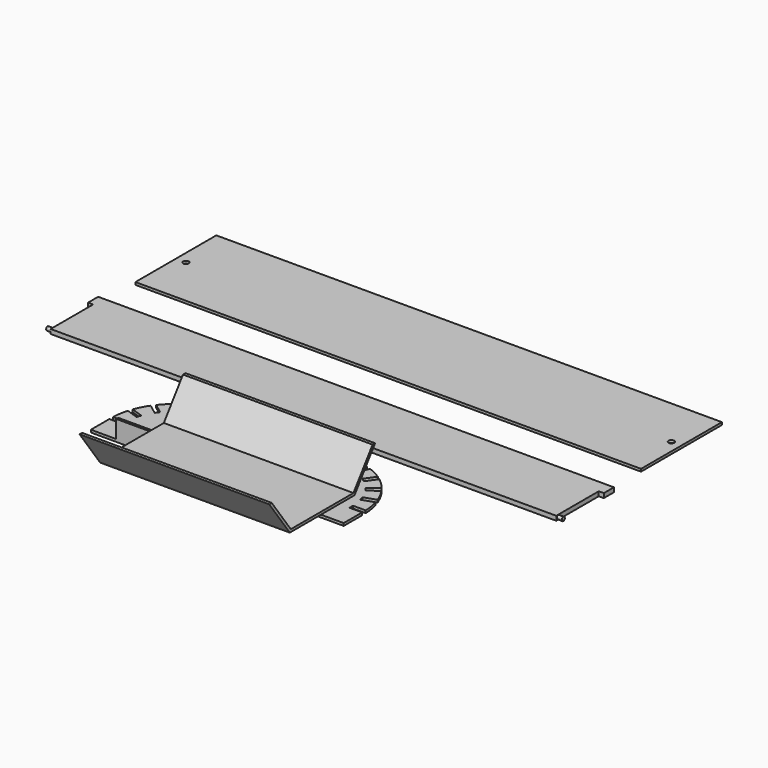
from build123d import *

# Parameters (mm, degrees)
F1_R      = 0.875
F2_DEPTH  = 1
F3_DEPTH  = 1.75
F4_DEPTH  = 8
F5_R      = 1
F6_DEPTH  = 2
F7_W      = 200
F7_H      = 40
F7_R      = 1.125
F8_DEPTH  = 1
F10_DEPTH = 2
F11_DEPTH = 202
F13_DEPTH = 75


with BuildPart() as f2:
    # F1 (on Top) → F2 (new body)
    with BuildSketch(Plane.XY):
        with BuildLine():
            Line((0.8836236666, -30.7055586278), (0.8836236666, -33.7055586278))
            Line((0.8836236666, -33.7055586278), (0.8836236666, -42.7055586278))
            Line((0.8836236666, -42.7055586278), (40.8836236666, -42.7055586278))
            Line((40.8836236666, -42.7055586278), (40.8836236666, -43.7055586278))
            Line((40.8836236666, -43.7055586278), (50.8836236666, -43.7055586278))
            Line((50.8836236666, -43.7055586278), (50.8836236666, -34.5805586278))
            Line((50.8836236666, -34.5805586278), (45.8836236666, -34.5805586278))
            Line((45.8836236666, -34.5805586278), (45.8836236666, -32.8305586278))
            Line((45.8836236666, -32.8305586278), (50.8683064743, -32.8305586278))
            ThreePointArc((50.8683064743, -32.8305586278), (50.8082953754, -31.7662958277), (50.7029709586, -30.7055586278))
            Line((50.7029709586, -30.7055586278), (25.8836236666, -30.7055586278))
            Line((25.8836236666, -30.7055586278), (20.8836236666, -30.7055586278))
            Line((20.8836236666, -30.7055586278), (0.8836236666, -30.7055586278))
        make_face()
        with Locations((25.8836236666, -33.7055586278)):
            Circle(F1_R, mode=Mode.SUBTRACT)
        with BuildLine():
            Line((-9.8663763334, -33.7055586278), (0.8836236666, -33.7055586278))
            Line((0.8836236666, -33.7055586278), (0.8836236666, -30.7055586278))
            Line((0.8836236666, -30.7055586278), (-19.1163763334, -30.7055586278))
            Line((-19.1163763334, -30.7055586278), (-24.1163763334, -30.7055586278))
            Line((-24.1163763334, -30.7055586278), (-48.9357236254, -30.7055586278))
            ThreePointArc((-48.9357236254, -30.7055586278), (-49.0410480422, -31.7662958277), (-49.1010591411, -32.8305586278))
            Line((-49.1010591411, -32.8305586278), (-44.1163763334, -32.8305586278))
            Line((-44.1163763334, -32.8305586278), (-44.1163763334, -33.7055586278))
            Line((-44.1163763334, -33.7055586278), (-24.9913763334, -33.7055586278))
            ThreePointArc((-24.9913763334, -33.7055586278), (-24.1163763334, -32.8305586278), (-23.2413763334, -33.7055586278))
            Line((-23.2413763334, -33.7055586278), (-9.8663763334, -33.7055586278))
        make_face()
        with BuildLine():
            Line((0.8836236666, -42.7055586278), (0.8836236666, -33.7055586278))
            Line((0.8836236666, -33.7055586278), (-9.8663763334, -33.7055586278))
            Line((-9.8663763334, -33.7055586278), (-23.2413763334, -33.7055586278))
            ThreePointArc((-23.2413763334, -33.7055586278), (-24.1163763334, -34.5805586278), (-24.9913763334, -33.7055586278))
            Line((-24.9913763334, -33.7055586278), (-44.1163763334, -33.7055586278))
            Line((-44.1163763334, -33.7055586278), (-44.1163763334, -34.5805586278))
            Line((-44.1163763334, -34.5805586278), (-49.1163763334, -34.5805586278))
            Line((-49.1163763334, -34.5805586278), (-49.1163763334, -43.7055586278))
            Line((-49.1163763334, -43.7055586278), (-39.1163763334, -43.7055586278))
            Line((-39.1163763334, -43.7055586278), (-39.1163763334, -42.7055586278))
            Line((-39.1163763334, -42.7055586278), (0.8836236666, -42.7055586278))
        make_face()
        with BuildLine():
            Line((-19.1163763334, -30.7055586278), (0.8836236666, -30.7055586278))
            Line((0.8836236666, -30.7055586278), (0.8836236666, -8.7055586278))
            Line((0.8836236666, -8.7055586278), (-23.2413763334, -8.7055586278))
            Line((-23.2413763334, -8.7055586278), (-23.1618389561, -13.7055586278))
            Line((-23.1618389561, -13.7055586278), (-24.1163763334, -13.7055586278))
            Line((-24.1163763334, -13.7055586278), (-24.912082614, -13.7055586278))
            Line((-24.912082614, -13.7055586278), (-24.9913763334, -8.7208758202))
            ThreePointArc((-24.9913763334, -8.7208758202), (-28.077908395, -9.0214288331), (-31.1034834927, -9.701801973))
            Line((-31.1034834927, -9.701801973), (-29.5353038107, -14.4536697596))
            ThreePointArc((-29.5353038107, -14.4536697596), (-30.3723855414, -14.7091813735), (-31.1974871395, -15.0010706704))
            Line((-31.1974871395, -15.0010706704), (-32.7655987712, -10.2494090883))
            ThreePointArc((-32.7655987712, -10.2494090883), (-35.440866625, -11.4175367409), (-37.9617303934, -12.8895510627))
            Line((-37.9617303934, -12.8895510627), (-35.0863486412, -16.9825293698))
            ThreePointArc((-35.0863486412, -16.9825293698), (-35.8075280429, -17.4785141741), (-36.5063159472, -18.0055778519))
            Line((-36.5063159472, -18.0055778519), (-39.3841000729, -13.9091798727))
            ThreePointArc((-39.3841000729, -13.9091798727), (-41.6810511869, -15.9156121048), (-43.7165906252, -18.1868086874))
            Line((-43.7165906252, -18.1868086874), (-39.7171402185, -21.1909205507))
            ThreePointArc((-39.7171402185, -21.1909205507), (-40.2497548544, -21.8854868219), (-40.7514700108, -22.6026915051))
            Line((-40.7514700108, -22.6026915051), (-44.7542619472, -19.5960697147))
            ThreePointArc((-44.7542619472, -19.5960697147), (-46.318770614, -22.214097093), (-47.5528453195, -25.0031496818))
            Line((-47.5528453195, -25.0031496818), (-42.8208203298, -26.6243317012))
            ThreePointArc((-42.8208203298, -26.6243317012), (-43.1127341685, -27.4494904535), (-43.3682652017, -28.2866311505))
            Line((-43.3682652017, -28.2866311505), (-48.1042437851, -26.664094638))
            ThreePointArc((-48.1042437851, -26.664094638), (-48.6035037794, -28.6676434394), (-48.9357236254, -30.7055586278))
            Line((-48.9357236254, -30.7055586278), (-24.1163763334, -30.7055586278))
            Line((-24.1163763334, -30.7055586278), (-19.1163763334, -30.7055586278))
        make_face()
        with BuildLine():
            Line((0.8836236666, -8.7055586278), (0.8836236666, -30.7055586278))
            Line((0.8836236666, -30.7055586278), (20.8836236666, -30.7055586278))
            Line((20.8836236666, -30.7055586278), (25.8836236666, -30.7055586278))
            Line((25.8836236666, -30.7055586278), (50.7029709586, -30.7055586278))
            ThreePointArc((50.7029709586, -30.7055586278), (50.3707511125, -28.6676434394), (49.8714911183, -26.664094638))
            Line((49.8714911183, -26.664094638), (45.1355125348, -28.2866311505))
            ThreePointArc((45.1355125348, -28.2866311505), (44.8799815016, -27.4494904535), (44.588067663, -26.6243317012))
            Line((44.588067663, -26.6243317012), (49.3200926527, -25.0031496818))
            ThreePointArc((49.3200926527, -25.0031496818), (48.0860179472, -22.214097093), (46.5215092804, -19.5960697147))
            Line((46.5215092804, -19.5960697147), (42.518717344, -22.6026915051))
            ThreePointArc((42.518717344, -22.6026915051), (42.0170021876, -21.8854868219), (41.4843875517, -21.1909205507))
            Line((41.4843875517, -21.1909205507), (45.4838379584, -18.1868086874))
            ThreePointArc((45.4838379584, -18.1868086874), (43.4482985201, -15.9156121048), (41.1513474061, -13.9091798727))
            Line((41.1513474061, -13.9091798727), (38.2735632804, -18.0055778519))
            ThreePointArc((38.2735632804, -18.0055778519), (37.5747753761, -17.4785141741), (36.8535959744, -16.9825293698))
            Line((36.8535959744, -16.9825293698), (39.7289777266, -12.8895510627))
            ThreePointArc((39.7289777266, -12.8895510627), (37.2081139582, -11.4175367409), (34.5328461044, -10.2494090883))
            Line((34.5328461044, -10.2494090883), (32.9647344727, -15.0010706704))
            ThreePointArc((32.9647344727, -15.0010706704), (32.1396328746, -14.7091813735), (31.3025511439, -14.4536697596))
            Line((31.3025511439, -14.4536697596), (32.8707308259, -9.701801973))
            ThreePointArc((32.8707308259, -9.701801973), (29.8451557282, -9.0214288331), (26.7586236666, -8.7208758202))
            Line((26.7586236666, -8.7208758202), (26.6793299472, -13.7055586278))
            Line((26.6793299472, -13.7055586278), (25.8836236666, -13.7055586278))
            Line((25.8836236666, -13.7055586278), (24.9290862893, -13.7055586278))
            Line((24.9290862893, -13.7055586278), (25.0086236666, -8.7055586278))
            Line((25.0086236666, -8.7055586278), (0.8836236666, -8.7055586278))
        make_face()
        Polygon((0.8836236666, -43.7055586278), (0.8836236666, -42.7055586278), (-39.1163763334, -42.7055586278), (-39.1163763334, -43.7055586278), (-9.1163763334, -43.7055586278), align=None)
        Polygon((40.8836236666, -42.7055586278), (0.8836236666, -42.7055586278), (0.8836236666, -43.7055586278), (5.8836236666, -43.7055586278), (10.8836236666, -43.7055586278), (40.8836236666, -43.7055586278), align=None)
    extrude(amount=F2_DEPTH)

    # F1 (on Top) → F4 (join)
    with BuildSketch(Plane.XY):
        Polygon((0.8836236666, -43.7055586278), (0.8836236666, -42.7055586278), (-39.1163763334, -42.7055586278), (-39.1163763334, -43.7055586278), (-9.1163763334, -43.7055586278), align=None)
        Polygon((40.8836236666, -42.7055586278), (0.8836236666, -42.7055586278), (0.8836236666, -43.7055586278), (5.8836236666, -43.7055586278), (10.8836236666, -43.7055586278), (40.8836236666, -43.7055586278), align=None)
    extrude(amount=F4_DEPTH)

    # F5 (on face) → F6 (join)
    with BuildSketch(Plane(origin=(0, -42.7055586278, 0), x_dir=(-1, 0, 0), z_dir=(0, 1, 0))):
        with Locations((-0.8836236666, 4.5)):
            Circle(F5_R)
    extrude(amount=F6_DEPTH)


with BuildPart() as f3:
    # F0 (on Top) → F3 (new body)
    with BuildSketch(Plane.XY):
        Polygon((0, 26), (0, 0), (100, 0), (100, 21), (102, 21), (102, 26), align=None)
        Polygon((-100, 0), (0, 0), (0, 26), (-102, 26), (-102, 21), (-100, 21), align=None)
    extrude(amount=F3_DEPTH)

    # F9 (on face) → F10 (join)
    with BuildSketch(Plane(origin=(-100, 0, 0), x_dir=(0, -1, 0), z_dir=(-1, 0, 0))):
        with BuildLine():
            ThreePointArc((-1, 1.625), (-1.75, 0.875), (-1, 0.125))
            Line((-1, 0.125), (-1, 1.625))
        make_face()
        with BuildLine():
            Line((-1, 1.625), (-1, 0.125))
            ThreePointArc((-1, 0.125), (-0.4696699141, 0.3446699141), (-0.25, 0.875))
            ThreePointArc((-0.25, 0.875), (-0.4696699141, 1.4053300859), (-1, 1.625))
        make_face()
    extrude(amount=F10_DEPTH)

    # F9 (on face) → F11 (join)
    with BuildSketch(Plane(origin=(-100, 0, 0), x_dir=(0, -1, 0), z_dir=(-1, 0, 0))):
        with BuildLine():
            ThreePointArc((-1, 1.625), (-1.75, 0.875), (-1, 0.125))
            Line((-1, 0.125), (-1, 1.625))
        make_face()
        with BuildLine():
            Line((-1, 1.625), (-1, 0.125))
            ThreePointArc((-1, 0.125), (-0.4696699141, 0.3446699141), (-0.25, 0.875))
            ThreePointArc((-0.25, 0.875), (-0.4696699141, 1.4053300859), (-1, 1.625))
        make_face()
    extrude(amount=-F11_DEPTH)


with BuildPart() as f8:
    # F7 (on Top) → F8 (new body)
    with BuildSketch(Plane.XY):
        with Locations((-0.0712359548, 62)):
            Rectangle(F7_W, F7_H)
        with Locations((-96.0712359548, 62)):
            Circle(F7_R, mode=Mode.SUBTRACT)
        with Locations((95.9287640452, 62)):
            Circle(F7_R, mode=Mode.SUBTRACT)
    extrude(amount=F8_DEPTH)


with BuildPart() as f13:
    # F12 (on Right) → F13 (new body)
    with BuildSketch(Plane.YZ):
        Polygon((-100.5110992908, 28.6), (-84.5110992908, 28.6), (-68.5110992908, 28.6), (-58.3313473489, 42.6112265278), (-59.5674153264, 42.6112265278), (-69.0206247403, 29.6), (-84.5110992908, 29.6), (-100.0015738414, 29.6), (-109.4547832553, 42.6112265278), (-110.6908512328, 42.6112265278), align=None)
    extrude(amount=F13_DEPTH)


solid = Compound([f2.part, f3.part, f8.part, f13.part])
